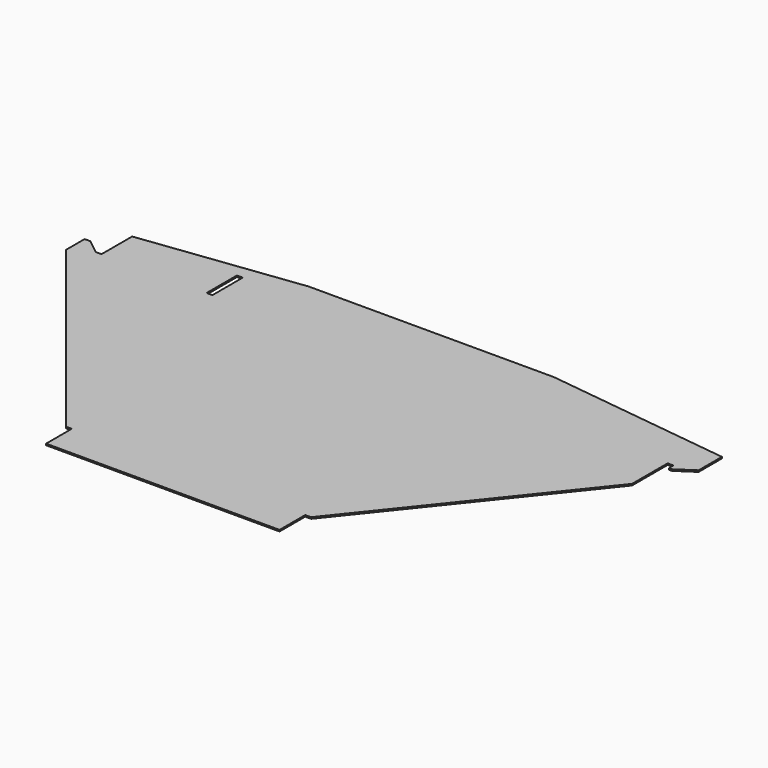
from build123d import *

# Parameters (mm, degrees)
F0_W     = 12.7
F0_H     = 82.55
F0_W_2   = 508
F0_H_2   = 660.4
F0_H_3   = 69.85
F1_DEPTH = 3.175


with BuildPart() as f1:
    # F0 (on Top) → F1 (new body)
    with BuildSketch(Plane.XY):
        Polygon((-419.1, -152.4), (-12.7, -660.4), (-12.7, 0), (-361.95, -43.65625), (-361.95, -127), (-374.65, -127), (-406.4, -101.6), (-419.1, -101.6), align=None)
        with Locations((-127, -85.725)):
            Rectangle(F0_W, F0_H, mode=Mode.SUBTRACT)
        with Locations((254, -330.2)):
            Rectangle(F0_W_2, F0_H_2)
        with Locations((254, -695.325)):
            Rectangle(F0_W_2, F0_H_3)
        Polygon((520.7, 0), (520.7, -660.4), (869.95, -223.8375), (869.95, -127), (882.65, -127), (882.65, -139.7), (889, -139.7), (927.1, -114.3), (927.1, -50.8), align=None)
        with Locations((514.35, -330.2)):
            Rectangle(F0_W, F0_H_2)
        with Locations((-6.35, -330.2)):
            Rectangle(F0_W, F0_H_2)
    extrude(amount=F1_DEPTH)


solid = f1.part
